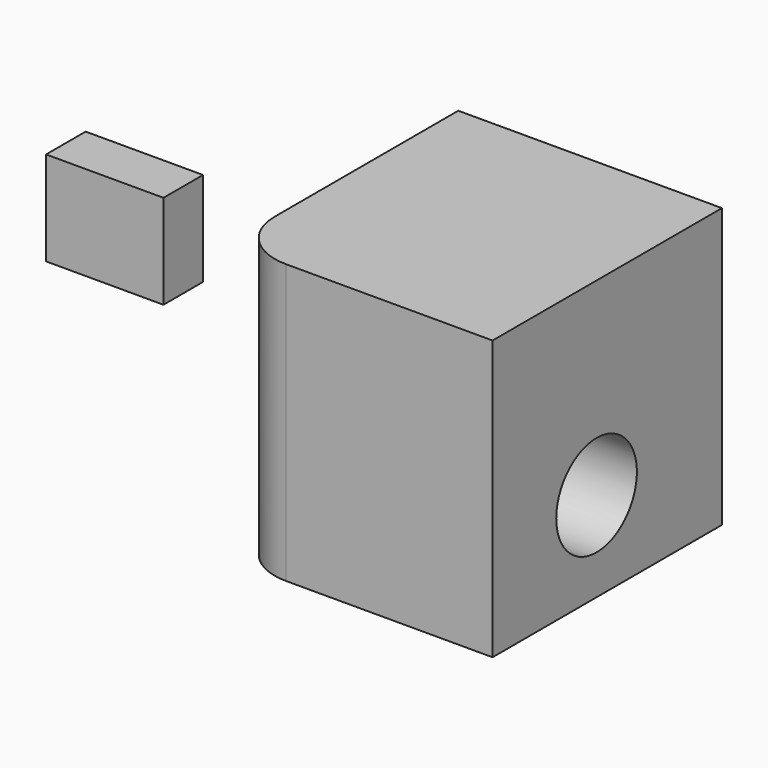
from build123d import *

# Parameters (mm, degrees)
F0_W     = 133.306772
F0_H     = 144.947588
F1_DEPTH = 141
F2_R     = 25.477934
F3_DEPTH = 133.307772
F4_R     = 28.970563
F5_T     = -10
F6_W     = 59.347406
F6_H     = 47.610507
F7_DEPTH = 25


with BuildPart() as f1:
    # F0 (on Top) → F1 (new body)
    with BuildSketch(Plane.XY):
        with Locations((66.653386, 72.473794)):
            Rectangle(F0_W, F0_H)
    extrude(amount=-F1_DEPTH)

    # F2 (on face) → F3 (cut, through all)
    with BuildSketch(Plane(origin=(0, 0, 0), x_dir=(0, -1, 0), z_dir=(-1, 0, 0))):
        with Locations((-65.716974, -95.555864)):
            Circle(F2_R)
    extrude(amount=-F3_DEPTH, mode=Mode.SUBTRACT)

    # F4
    f4_edges = [f1.edges().sort_by_distance(p)[0] for p in [
        (0, 0, -70.5),
    ]]
    fillet(f4_edges, radius=F4_R)

    # F5
    f5_openings = [f1.faces().sort_by_distance(p)[0] for p in [
        (67.219651, 73.094825, -141),
    ]]
    offset(amount=F5_T, openings=f5_openings)


with BuildPart() as f7:
    # F6 (on Front) → F7 (new body)
    with BuildSketch(Plane.XZ):
        with Locations((-42.758577, 2.264978)):
            Rectangle(F6_W, F6_H)
    extrude(amount=F7_DEPTH)


solid = Compound([f1.part, f7.part])
